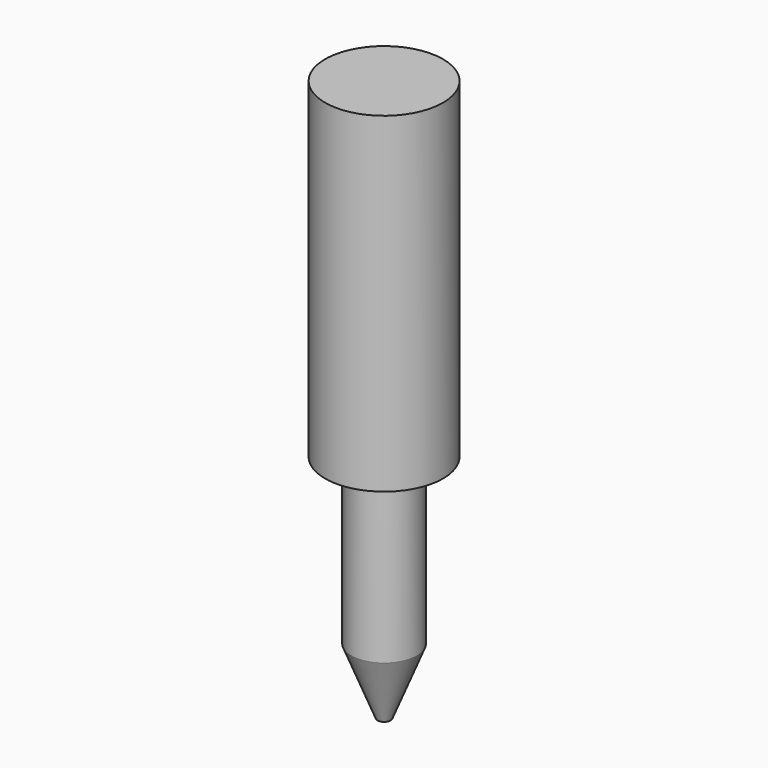
from build123d import *

# Parameters (mm, degrees)
CYLINDER007_R     = 0.5
CYLINDER007_DEPTH = 2.51
CYLINDER008_R     = 0.9
CYLINDER008_DEPTH = 5.05


with BuildPart() as cylinder007:
    # Cylinder007 → Cylinder007 (new body)
    with BuildSketch(Plane(origin=(2.54, 0, -2.51), x_dir=(1, 0, 0), z_dir=(0, 0, 1))):
        Circle(CYLINDER007_R)
    extrude(amount=CYLINDER007_DEPTH)


with BuildPart() as cone003:
    # Cone003 → Cone003 (revolve)
    with BuildSketch(Plane(origin=(2.54, 0, -3.51), x_dir=(1, 0, 0), z_dir=(0, -1, 0))):
        Polygon((0, 0), (0.1, 0), (0.5, 1), (0, 1), align=None)
    revolve(axis=Axis((2.54, 0, -3.51), (0, 0, 1)))


with BuildPart() as fusion003:
    # Cylinder008 → Cylinder008 (new body)
    with BuildSketch(Plane(origin=(2.54, 0, 0), x_dir=(1, 0, 0), z_dir=(0, 0, 1))):
        Circle(CYLINDER008_R)
    extrude(amount=CYLINDER008_DEPTH)

    # Fusion003: union Cylinder007, Cone003
    add(cylinder007.part)
    add(cone003.part)


with BuildPart() as fusion003_1:
    # Fusion003 placement: moved
    add(fusion003.part.moved(Location((45.72, 13.97, 0))))


solid = fusion003_1.part
